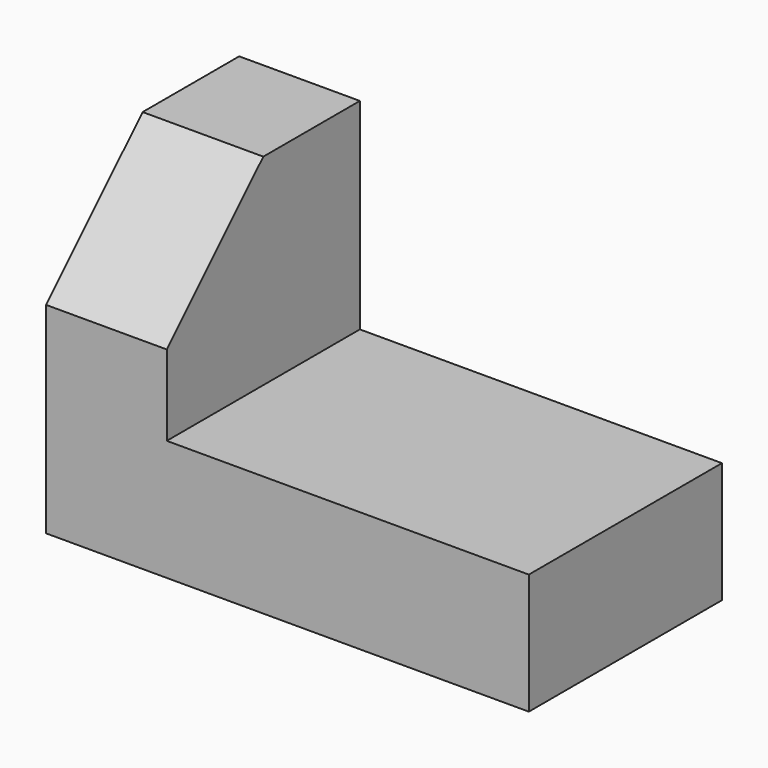
from build123d import *

# Parameters (mm, degrees)
F1_DEPTH = 76.2
F3_DEPTH = 45.72


with BuildPart() as f1:
    # F0 (on Front) → F1 (new body)
    with BuildSketch(Plane.XZ):
        Polygon((0, 101.6), (0, 0), (152.4, 0), (152.4, 38.1), (38.1, 38.1), (38.1, 101.6), align=None)
    extrude(amount=F1_DEPTH)

    # F2 (on face) → F3 (cut)
    with BuildSketch(Plane.YZ.offset(38.1)):
        Polygon((-76.2, 63.5), (-38.1, 101.6), (-76.2, 101.6), align=None)
    extrude(amount=-F3_DEPTH, mode=Mode.SUBTRACT)


solid = f1.part
